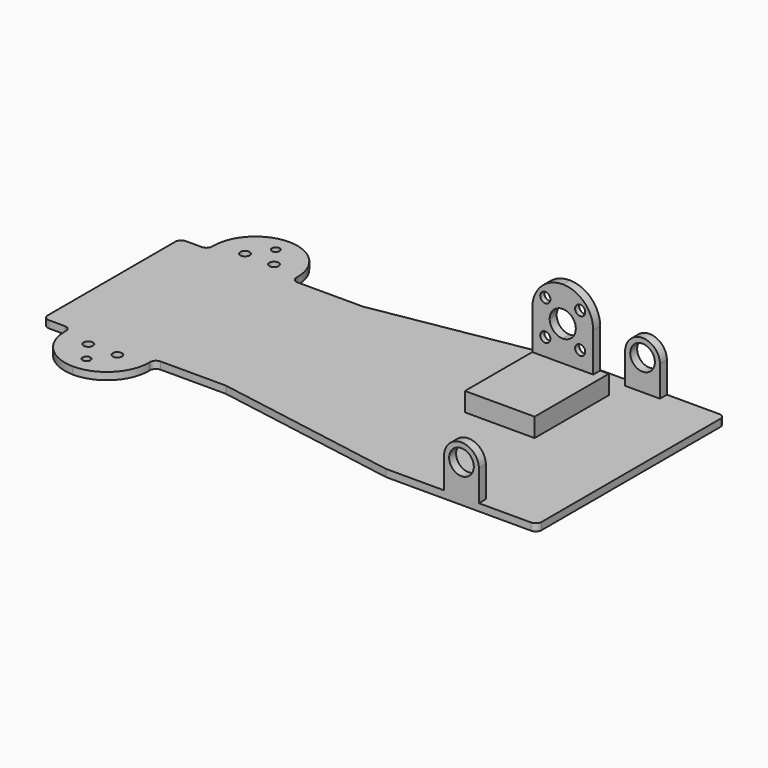
from build123d import *

# Parameters (mm, degrees)
F0_R            = 1.6
F0_W            = 12
F0_H            = 40.5
F0_W_2          = 20
F1_DEPTH        = 2.5
F7_DEPTH        = 3
F9_DEPTH        = 3
F11_DEPTH       = 3
F12_D           = 3.5
F12_CSINK_D     = 6
F12_CSINK_ANGLE = 90
F14_W           = 24
F14_H           = 9
F15_DEPTH       = 32


with BuildPart() as f1:
    # F0 (on Top) → F1 (new body)
    with BuildSketch(Plane.XY):
        Polygon((-139.390603765, 15.5821263526), (-139.390603765, -13.9178736474), (-75.390603765, -13.9178736474), (-75.390603765, 26.5821263526), align=None)
        with BuildLine():
            Line((-75.390603765, -13.9178736474), (-139.390603765, -13.9178736474))
            Line((-139.390603765, -13.9178736474), (-178.390603765, -13.9178736474))
            Line((-178.390603765, -13.9178736474), (-178.390603765, -53.3178736474))
            ThreePointArc((-178.390603765, -53.3178736474), (-177.4360096104, -53.7132794928), (-177.040603765, -54.6678736474))
            ThreePointArc((-177.040603765, -54.6678736474), (-177.4360096104, -55.622467802), (-178.390603765, -56.0178736474))
            Line((-178.390603765, -56.0178736474), (-178.390603765, -60.4178736474))
            ThreePointArc((-178.390603765, -60.4178736474), (-168.1375554378, -56.1709219746), (-163.890603765, -45.9178736474))
            Line((-163.890603765, -45.9178736474), (-163.890603765, -45.4178736474))
            ThreePointArc((-163.890603765, -45.4178736474), (-163.3048173273, -44.003660085), (-161.890603765, -43.4178736474))
            Line((-161.890603765, -43.4178736474), (-139.390603765, -43.4178736474))
            Line((-139.390603765, -43.4178736474), (-75.390603765, -54.4178736474))
            Line((-75.390603765, -54.4178736474), (-63.390603765, -54.4178736474))
            Line((-63.390603765, -54.4178736474), (-63.390603765, -13.9178736474))
            Line((-63.390603765, -13.9178736474), (-75.390603765, -13.9178736474))
        make_face()
        with Locations((-173.390603765, -47.6678736474)):
            Circle(F0_R, mode=Mode.SUBTRACT)
        with BuildLine():
            Line((-178.390603765, -13.9178736474), (-139.390603765, -13.9178736474))
            Line((-139.390603765, -13.9178736474), (-139.390603765, 15.5821263526))
            Line((-139.390603765, 15.5821263526), (-161.890603765, 15.5821263526))
            ThreePointArc((-161.890603765, 15.5821263526), (-163.3048173273, 16.1679127902), (-163.890603765, 17.5821263526))
            Line((-163.890603765, 17.5821263526), (-163.890603765, 18.0821263526))
            Line((-163.890603765, 18.0821263526), (-178.390603765, 18.0821263526))
            Line((-178.390603765, 18.0821263526), (-178.390603765, -13.9178736474))
        make_face()
        with Locations((-69.390603765, 6.3321263526)):
            Rectangle(F0_W, F0_H)
        with BuildLine():
            Line((-178.390603765, -53.3178736474), (-178.390603765, -13.9178736474))
            Line((-178.390603765, -13.9178736474), (-202.390603765, -13.9178736474))
            Line((-202.390603765, -13.9178736474), (-202.390603765, -41.4178736474))
            ThreePointArc((-202.390603765, -41.4178736474), (-201.8048173273, -42.8320872098), (-200.390603765, -43.4178736474))
            Line((-200.390603765, -43.4178736474), (-194.890603765, -43.4178736474))
            ThreePointArc((-194.890603765, -43.4178736474), (-193.4763902026, -44.003660085), (-192.890603765, -45.4178736474))
            Line((-192.890603765, -45.4178736474), (-192.890603765, -45.9178736474))
            ThreePointArc((-192.890603765, -45.9178736474), (-188.6436520922, -56.1709219746), (-178.390603765, -60.4178736474))
            Line((-178.390603765, -60.4178736474), (-178.390603765, -56.0178736474))
            ThreePointArc((-178.390603765, -56.0178736474), (-179.740603765, -54.6678736474), (-178.390603765, -53.3178736474))
        make_face()
        with Locations((-183.390603765, -47.6678736474)):
            Circle(F0_R, mode=Mode.SUBTRACT)
        with BuildLine():
            Line((-202.390603765, -13.9178736474), (-178.390603765, -13.9178736474))
            Line((-178.390603765, -13.9178736474), (-178.390603765, 18.0821263526))
            Line((-178.390603765, 18.0821263526), (-192.890603765, 18.0821263526))
            Line((-192.890603765, 18.0821263526), (-192.890603765, 17.5821263526))
            ThreePointArc((-192.890603765, 17.5821263526), (-193.4763902026, 16.1679127902), (-194.890603765, 15.5821263526))
            Line((-194.890603765, 15.5821263526), (-200.390603765, 15.5821263526))
            ThreePointArc((-200.390603765, 15.5821263526), (-201.8048173273, 14.996339915), (-202.390603765, 13.5821263526))
            Line((-202.390603765, 13.5821263526), (-202.390603765, -13.9178736474))
        make_face()
        with Locations((-53.390603765, 6.3321263526)):
            Rectangle(F0_W_2, F0_H)
        with Locations((-53.390603765, -34.1678736474)):
            Rectangle(F0_W_2, F0_H)
        with BuildLine():
            Line((-178.390603765, 25.4821263526), (-178.390603765, 18.0821263526))
            Line((-178.390603765, 18.0821263526), (-163.890603765, 18.0821263526))
            ThreePointArc((-163.890603765, 18.0821263526), (-168.1375554378, 28.3351746798), (-178.390603765, 32.5821263526))
            Line((-178.390603765, 32.5821263526), (-178.390603765, 28.1821263526))
            ThreePointArc((-178.390603765, 28.1821263526), (-177.4360096104, 27.7867205072), (-177.040603765, 26.8321263526))
            ThreePointArc((-177.040603765, 26.8321263526), (-177.4360096104, 25.877532198), (-178.390603765, 25.4821263526))
        make_face()
        with Locations((-173.390603765, 19.8321263526)):
            Circle(F0_R, mode=Mode.SUBTRACT)
        with BuildLine():
            Line((-192.890603765, 18.0821263526), (-178.390603765, 18.0821263526))
            Line((-178.390603765, 18.0821263526), (-178.390603765, 25.4821263526))
            ThreePointArc((-178.390603765, 25.4821263526), (-179.740603765, 26.8321263526), (-178.390603765, 28.1821263526))
            Line((-178.390603765, 28.1821263526), (-178.390603765, 32.5821263526))
            ThreePointArc((-178.390603765, 32.5821263526), (-188.6436520922, 28.3351746798), (-192.890603765, 18.0821263526))
        make_face()
        with Locations((-183.390603765, 19.8321263526)):
            Circle(F0_R, mode=Mode.SUBTRACT)
        with BuildLine():
            Line((-43.390603765, 26.5821263526), (-43.390603765, -13.9178736474))
            Line((-43.390603765, -13.9178736474), (-23.390603765, -13.9178736474))
            Line((-23.390603765, -13.9178736474), (-23.390603765, 24.5821263526))
            ThreePointArc((-23.390603765, 24.5821263526), (-23.9763902026, 25.996339915), (-25.390603765, 26.5821263526))
            Line((-25.390603765, 26.5821263526), (-43.390603765, 26.5821263526))
        make_face()
        with BuildLine():
            Line((-23.390603765, -13.9178736474), (-43.390603765, -13.9178736474))
            Line((-43.390603765, -13.9178736474), (-43.390603765, -54.4178736474))
            Line((-43.390603765, -54.4178736474), (-25.390603765, -54.4178736474))
            ThreePointArc((-25.390603765, -54.4178736474), (-23.9763902026, -53.8320872098), (-23.390603765, -52.4178736474))
            Line((-23.390603765, -52.4178736474), (-23.390603765, -13.9178736474))
        make_face()
    extrude(amount=F1_DEPTH)

    # F6 (on plane+point) → F7 (join)
    with BuildSketch(Plane.XZ.offset(54.4178736474)):
        with BuildLine():
            Line((-55.390603765, 13), (-55.390603765, 0))
            Line((-55.390603765, 0), (-43.390603765, 0))
            Line((-43.390603765, 0), (-43.390603765, 13))
            Line((-43.390603765, 13), (-45.140603765, 13))
            ThreePointArc((-45.140603765, 13), (-49.390603765, 8.75), (-53.640603765, 13))
            Line((-53.640603765, 13), (-55.390603765, 13))
        make_face()
        with BuildLine():
            ThreePointArc((-43.390603765, 13), (-49.390603765, 19), (-55.390603765, 13))
            Line((-55.390603765, 13), (-53.640603765, 13))
            ThreePointArc((-53.640603765, 13), (-49.390603765, 17.25), (-45.140603765, 13))
            Line((-45.140603765, 13), (-43.390603765, 13))
        make_face()
    extrude(amount=-F7_DEPTH)

    # F8 (on plane+point) → F9 (join)
    with BuildSketch(Plane.XZ.offset(-26.5821263526)):
        with BuildLine():
            Line((-55.390603765, 13), (-55.390603765, 0))
            Line((-55.390603765, 0), (-43.390603765, 0))
            Line((-43.390603765, 0), (-43.390603765, 13))
            Line((-43.390603765, 13), (-45.140603765, 13))
            ThreePointArc((-45.140603765, 13), (-49.390603765, 8.75), (-53.640603765, 13))
            Line((-53.640603765, 13), (-55.390603765, 13))
        make_face()
        with BuildLine():
            ThreePointArc((-43.390603765, 13), (-49.390603765, 19), (-55.390603765, 13))
            Line((-55.390603765, 13), (-53.640603765, 13))
            ThreePointArc((-53.640603765, 13), (-49.390603765, 17.25), (-45.140603765, 13))
            Line((-45.140603765, 13), (-43.390603765, 13))
        make_face()
    extrude(amount=F9_DEPTH)

    # F10 (on plane+point) → F11 (join)
    with BuildSketch(Plane.XZ.offset(-16.5821263526)):
        with BuildLine():
            Line((-79.390603765, 22.5), (-79.390603765, 0))
            Line((-79.390603765, 0), (-58.390603765, 0))
            Line((-58.390603765, 0), (-58.390603765, 22.5))
            Line((-58.390603765, 22.5), (-64.6479630778, 22.5))
            ThreePointArc((-64.6479630778, 22.5), (-64.4554102465, 21.7609589043), (-64.390603765, 21))
            ThreePointArc((-64.390603765, 21), (-65.7086232496, 17.8180194847), (-68.890603765, 16.5))
            ThreePointArc((-68.890603765, 16.5), (-72.0725842803, 17.8180194847), (-73.390603765, 21))
            ThreePointArc((-73.390603765, 21), (-73.3257972834, 21.7609589043), (-73.1332444521, 22.5))
            Line((-73.1332444521, 22.5), (-79.390603765, 22.5))
        make_face()
        with BuildLine():
            ThreePointArc((-68.890603765, 33), (-76.3152249674, 29.9246212025), (-79.390603765, 22.5))
            Line((-79.390603765, 22.5), (-73.1332444521, 22.5))
            ThreePointArc((-73.1332444521, 22.5), (-72.696981914, 23.4003094356), (-72.0725842803, 24.1819805153))
            ThreePointArc((-72.0725842803, 24.1819805153), (-70.6126792106, 25.1574578963), (-68.890603765, 25.5))
            Line((-68.890603765, 25.5), (-68.890603765, 33))
        make_face()
        with BuildLine():
            Line((-64.6479630778, 22.5), (-58.390603765, 22.5))
            ThreePointArc((-58.390603765, 22.5), (-61.4659825625, 29.9246212025), (-68.890603765, 33))
            Line((-68.890603765, 33), (-68.890603765, 25.5))
            ThreePointArc((-68.890603765, 25.5), (-66.2925275536, 24.6742346142), (-64.6479630778, 22.5))
        make_face()
    extrude(amount=F11_DEPTH)

    # F12 (through all)
    with Locations(Plane(origin=(0, 16.5821263526, 0), x_dir=(1, 0, 0), z_dir=(0, 1, 0))):
        with Locations((-74.901011405, -27.0104076401), (-62.8801961249, -27.0104076401), (-62.8801961249, -14.9895923599), (-74.901011405, -14.9895923599)):
            CounterSinkHole(F12_D / 2, F12_CSINK_D / 2, counter_sink_angle=F12_CSINK_ANGLE)

    # F14 (on plane+point) → F15 (join)
    with BuildSketch(Plane.XZ.offset(15.4178736474)):
        with Locations((-67.390603765, 4.5)):
            Rectangle(F14_W, F14_H)
    extrude(amount=-F15_DEPTH)


solid = f1.part
